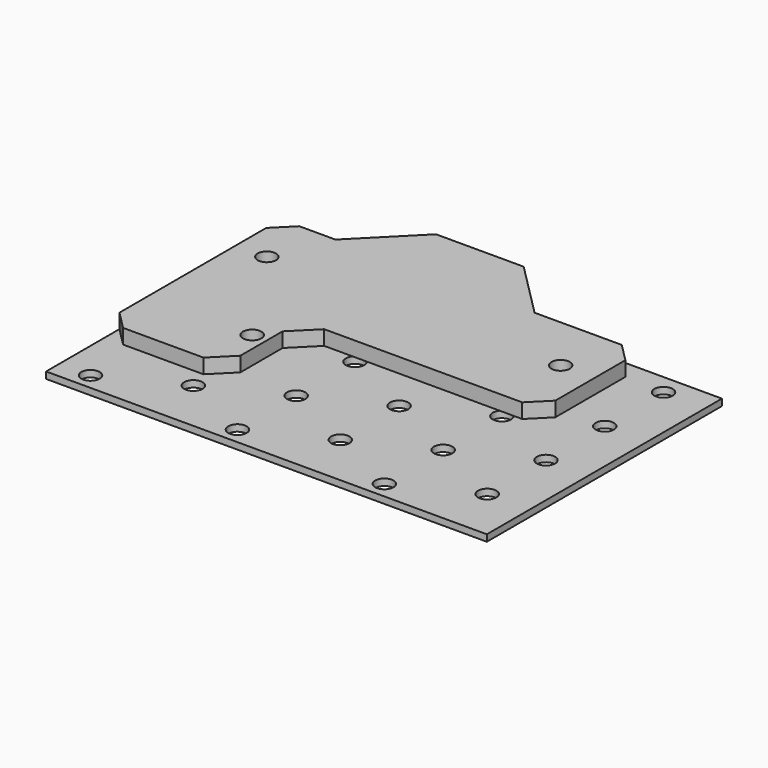
from build123d import *

# Parameters (mm, degrees)
SKETCH_W     = 120
SKETCH_H     = 80
SKETCH_R     = 2.5
PAD_DEPTH    = 1.8
SKETCH001_R  = 2.5
PAD001_DEPTH = 4


with BuildPart() as part:
    # Sketch → Pad (new body)
    with BuildSketch(Plane.XY):
        with Locations((60, 40)):
            Rectangle(SKETCH_W, SKETCH_H)
        with Locations((8.5, 4.5)):
            Circle(SKETCH_R, mode=Mode.SUBTRACT)
        with Locations((48.5, 4.5)):
            Circle(SKETCH_R, mode=Mode.SUBTRACT)
        with Locations((88.5, 4.5)):
            Circle(SKETCH_R, mode=Mode.SUBTRACT)
        with Locations((28.5, 14.5)):
            Circle(SKETCH_R, mode=Mode.SUBTRACT)
        with Locations((108.5, 14.5)):
            Circle(SKETCH_R, mode=Mode.SUBTRACT)
        with Locations((8.5, 24.5)):
            Circle(SKETCH_R, mode=Mode.SUBTRACT)
        with Locations((48.5, 24.5)):
            Circle(SKETCH_R, mode=Mode.SUBTRACT)
        with Locations((88.5, 24.5)):
            Circle(SKETCH_R, mode=Mode.SUBTRACT)
        with Locations((8.5, 44.5)):
            Circle(SKETCH_R, mode=Mode.SUBTRACT)
        with Locations((48.5, 44.5)):
            Circle(SKETCH_R, mode=Mode.SUBTRACT)
        with Locations((88.5, 44.5)):
            Circle(SKETCH_R, mode=Mode.SUBTRACT)
        with Locations((28.5, 54.5)):
            Circle(SKETCH_R, mode=Mode.SUBTRACT)
        with Locations((68.5, 54.5)):
            Circle(SKETCH_R, mode=Mode.SUBTRACT)
        with Locations((108.5, 54.5)):
            Circle(SKETCH_R, mode=Mode.SUBTRACT)
        with Locations((88.5, 64.5)):
            Circle(SKETCH_R, mode=Mode.SUBTRACT)
        with Locations((48.5, 64.5)):
            Circle(SKETCH_R, mode=Mode.SUBTRACT)
        with Locations((8.5, 64.5)):
            Circle(SKETCH_R, mode=Mode.SUBTRACT)
        with Locations((28.5, 34.5)):
            Circle(SKETCH_R, mode=Mode.SUBTRACT)
        with Locations((68.5, 34.5)):
            Circle(SKETCH_R, mode=Mode.SUBTRACT)
        with Locations((108.5, 34.5)):
            Circle(SKETCH_R, mode=Mode.SUBTRACT)
        with Locations((28.5, 74.5)):
            Circle(SKETCH_R, mode=Mode.SUBTRACT)
        with Locations((68.5, 74.5)):
            Circle(SKETCH_R, mode=Mode.SUBTRACT)
        with Locations((108.5, 74.5)):
            Circle(SKETCH_R, mode=Mode.SUBTRACT)
        with Locations((68.5, 14.5)):
            Circle(SKETCH_R, mode=Mode.SUBTRACT)
    extrude(amount=PAD_DEPTH)

    # Sketch001 (on Face30 of Pad) → Pad001 (join)
    with BuildSketch(Plane.XY.offset(1.8)):
        Polygon((0.060355, 74.846256), (0.060355, 24.889119), (5.060355, 19.889119), (26.945464, 19.889119), (32.518221, 25.461876), (32.518221, 39.837159), (38.816962, 46.1359), (92.724373, 46.1359), (97.724373, 51.1359), (97.724373, 75), (92.724373, 80), (69, 80), (53.943623, 95.103615), (30.079678, 95.103615), (14.912183, 79.846256), (5.060355, 79.846256), align=None)
        with Locations((8.485094, 64.523872)):
            Circle(SKETCH001_R, mode=Mode.SUBTRACT)
        with Locations((28.521502, 34.481613)):
            Circle(SKETCH001_R, mode=Mode.SUBTRACT)
        with Locations((88.466942, 64.525024)):
            Circle(SKETCH001_R, mode=Mode.SUBTRACT)
    extrude(amount=PAD001_DEPTH)


solid = part.part
